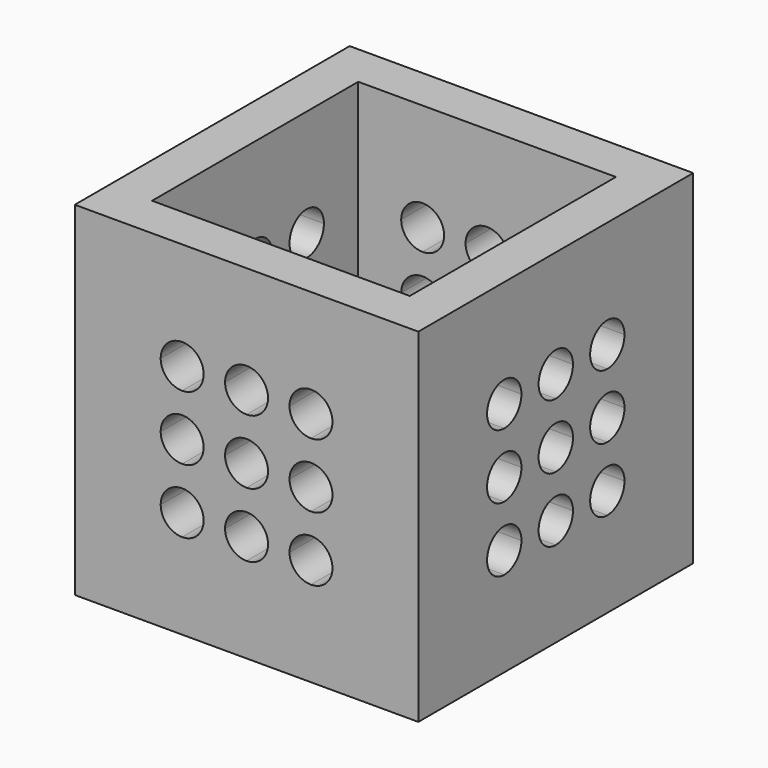
from build123d import *

# Parameters (mm, degrees)
F0_W     = 80
F0_H     = 80
F1_DEPTH = 80
F2_W     = 60
F2_H     = 60
F3_DEPTH = 70
F6_DEPTH = 254
F7_DEPTH = 254


with BuildPart() as f1:
    # F0 (on Front) → F1 (new body)
    with BuildSketch(Plane.XZ):
        with Locations((40, 40)):
            Rectangle(F0_W, F0_H)
    extrude(amount=F1_DEPTH)

    # F2 (on face) → F3 (cut)
    with BuildSketch(Plane.XY.offset(80)):
        with Locations((40, -40)):
            Rectangle(F2_W, F2_H)
    extrude(amount=-F3_DEPTH, mode=Mode.SUBTRACT)

    # F4 (on face) → F6 (cut)
    with BuildSketch(Plane.XZ.offset(80)):
        with BuildLine():
            ThreePointArc((25, 60), (21.464466, 58.535534), (20, 55))
            ThreePointArc((20, 55), (21.464466, 51.464466), (25, 50))
            ThreePointArc((25, 50), (28.535534, 51.464466), (30, 55))
            ThreePointArc((30, 55), (28.535534, 58.535534), (25, 60))
        make_face()
        with BuildLine():
            ThreePointArc((45, 55), (43.535534, 58.535534), (40, 60))
            ThreePointArc((40, 60), (36.464466, 58.535534), (35, 55))
            ThreePointArc((35, 55), (36.464466, 51.464466), (40, 50))
            ThreePointArc((40, 50), (43.535534, 51.464466), (45, 55))
        make_face()
        with BuildLine():
            ThreePointArc((55, 50), (58.535534, 51.464466), (60, 55))
            ThreePointArc((60, 55), (58.535534, 58.535534), (55, 60))
            ThreePointArc((55, 60), (51.464466, 58.535534), (50, 55))
            ThreePointArc((50, 55), (51.464466, 51.464466), (55, 50))
        make_face()
        with BuildLine():
            ThreePointArc((55, 35), (58.535534, 36.464466), (60, 40))
            ThreePointArc((60, 40), (58.535534, 43.535534), (55, 45))
            ThreePointArc((55, 45), (51.464466, 43.535534), (50, 40))
            ThreePointArc((50, 40), (51.464466, 36.464466), (55, 35))
        make_face()
        with BuildLine():
            ThreePointArc((50, 25), (51.464466, 21.464466), (55, 20))
            ThreePointArc((55, 20), (58.535534, 21.464466), (60, 25))
            ThreePointArc((60, 25), (58.535534, 28.535534), (55, 30))
            ThreePointArc((55, 30), (51.464466, 28.535534), (50, 25))
        make_face()
        with BuildLine():
            ThreePointArc((35, 25), (36.464466, 21.464466), (40, 20))
            ThreePointArc((40, 20), (43.535534, 21.464466), (45, 25))
            ThreePointArc((45, 25), (43.535534, 28.535534), (40, 30))
            ThreePointArc((40, 30), (36.464466, 28.535534), (35, 25))
        make_face()
        with BuildLine():
            ThreePointArc((35, 40), (36.464466, 36.464466), (40, 35))
            ThreePointArc((40, 35), (43.535534, 36.464466), (45, 40))
            ThreePointArc((45, 40), (43.535534, 43.535534), (40, 45))
            ThreePointArc((40, 45), (36.464466, 43.535534), (35, 40))
        make_face()
        with BuildLine():
            ThreePointArc((25, 45), (21.464466, 43.535534), (20, 40))
            ThreePointArc((20, 40), (21.464466, 36.464466), (25, 35))
            ThreePointArc((25, 35), (28.535534, 36.464466), (30, 40))
            ThreePointArc((30, 40), (28.535534, 43.535534), (25, 45))
        make_face()
        with BuildLine():
            ThreePointArc((20, 25), (21.464466, 21.464466), (25, 20))
            ThreePointArc((25, 20), (28.535534, 21.464466), (30, 25))
            ThreePointArc((30, 25), (28.535534, 28.535534), (25, 30))
            ThreePointArc((25, 30), (21.464466, 28.535534), (20, 25))
        make_face()
    extrude(amount=-F6_DEPTH, mode=Mode.SUBTRACT)

    # F5 (on face) → F7 (cut)
    with BuildSketch(Plane.YZ.offset(80)):
        with BuildLine():
            ThreePointArc((-55, 60), (-58.535534, 58.535534), (-60, 55))
            ThreePointArc((-60, 55), (-58.535534, 51.464466), (-55, 50))
            ThreePointArc((-55, 50), (-51.464466, 51.464466), (-50, 55))
            ThreePointArc((-50, 55), (-51.464466, 58.535534), (-55, 60))
        make_face()
        with BuildLine():
            ThreePointArc((-35, 55), (-36.464466, 58.535534), (-40, 60))
            ThreePointArc((-40, 60), (-43.535534, 58.535534), (-45, 55))
            ThreePointArc((-45, 55), (-43.535534, 51.464466), (-40, 50))
            ThreePointArc((-40, 50), (-36.464466, 51.464466), (-35, 55))
        make_face()
        with BuildLine():
            ThreePointArc((-25, 50), (-21.464466, 51.464466), (-20, 55))
            ThreePointArc((-20, 55), (-21.464466, 58.535534), (-25, 60))
            ThreePointArc((-25, 60), (-28.535534, 58.535534), (-30, 55))
            ThreePointArc((-30, 55), (-28.535534, 51.464466), (-25, 50))
        make_face()
        with BuildLine():
            ThreePointArc((-25, 35), (-21.464466, 36.464466), (-20, 40))
            ThreePointArc((-20, 40), (-21.464466, 43.535534), (-25, 45))
            ThreePointArc((-25, 45), (-28.535534, 43.535534), (-30, 40))
            ThreePointArc((-30, 40), (-28.535534, 36.464466), (-25, 35))
        make_face()
        with BuildLine():
            ThreePointArc((-30, 25), (-28.535534, 21.464466), (-25, 20))
            ThreePointArc((-25, 20), (-21.464466, 21.464466), (-20, 25))
            ThreePointArc((-20, 25), (-21.464466, 28.535534), (-25, 30))
            ThreePointArc((-25, 30), (-28.535534, 28.535534), (-30, 25))
        make_face()
        with BuildLine():
            ThreePointArc((-45, 25), (-43.535534, 21.464466), (-40, 20))
            ThreePointArc((-40, 20), (-36.464466, 21.464466), (-35, 25))
            ThreePointArc((-35, 25), (-36.464466, 28.535534), (-40, 30))
            ThreePointArc((-40, 30), (-43.535534, 28.535534), (-45, 25))
        make_face()
        with BuildLine():
            ThreePointArc((-60, 25), (-58.535534, 21.464466), (-55, 20))
            ThreePointArc((-55, 20), (-51.464466, 21.464466), (-50, 25))
            ThreePointArc((-50, 25), (-51.464466, 28.535534), (-55, 30))
            ThreePointArc((-55, 30), (-58.535534, 28.535534), (-60, 25))
        make_face()
        with BuildLine():
            ThreePointArc((-55, 45), (-58.535534, 43.535534), (-60, 40))
            ThreePointArc((-60, 40), (-58.535534, 36.464466), (-55, 35))
            ThreePointArc((-55, 35), (-51.464466, 36.464466), (-50, 40))
            ThreePointArc((-50, 40), (-51.464466, 43.535534), (-55, 45))
        make_face()
        with BuildLine():
            ThreePointArc((-45, 40), (-43.535534, 36.464466), (-40, 35))
            ThreePointArc((-40, 35), (-36.464466, 36.464466), (-35, 40))
            ThreePointArc((-35, 40), (-36.464466, 43.535534), (-40, 45))
            ThreePointArc((-40, 45), (-43.535534, 43.535534), (-45, 40))
        make_face()
    extrude(amount=-F7_DEPTH, mode=Mode.SUBTRACT)


solid = f1.part
